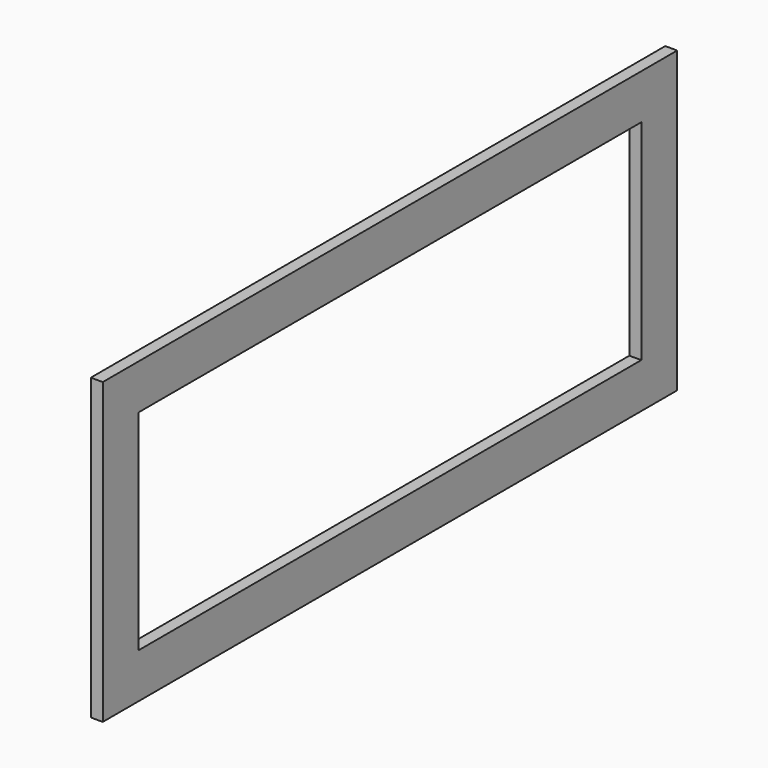
from build123d import *

# Parameters (mm, degrees)
F0_W     = 480
F0_H     = 200
F1_DEPTH = 8


with BuildPart() as f1:
    # F0 (on Right) → F1 (new body)
    with BuildSketch(Plane.YZ):
        with Locations((-37.386954, 100)):
            Rectangle(F0_W, F0_H)
        Polygon((-247.386954, 30), (-247.386954, 170), (-107.386954, 170), (32.613046, 170), (172.613046, 170), (172.613046, 30), (32.613046, 30), (-107.386954, 30), align=None, mode=Mode.SUBTRACT)
    extrude(amount=F1_DEPTH)


solid = f1.part
